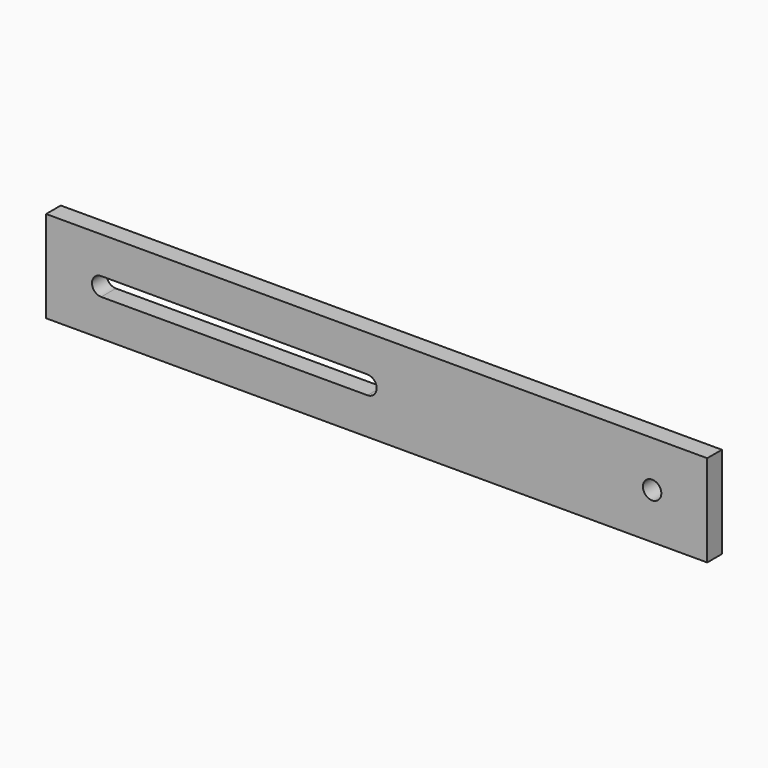
from build123d import *

# Parameters (mm, degrees)
F0_W     = 720
F0_H     = 20
F1_DEPTH = 100
F2_R     = 10
F3_DEPTH = 20.001


with BuildPart() as f1:
    # F0 (on Top) → F1 (new body)
    with BuildSketch(Plane.XY):
        with Locations((0.979618, 151.634271)):
            Rectangle(F0_W, F0_H)
    extrude(amount=F1_DEPTH)

    # F2 (on face) → F3 (cut, through all)
    with BuildSketch(Plane.XZ.offset(-141.634271)):
        with BuildLine():
            Line((-9.020382, 60), (-299.020382, 60))
            ThreePointArc((-299.020382, 60), (-309.020382, 50), (-299.020382, 40))
            Line((-299.020382, 40), (-9.020382, 40))
            ThreePointArc((-9.020382, 40), (0.979618, 50), (-9.020382, 60))
        make_face()
        with Locations((300.979618, 50)):
            Circle(F2_R)
    extrude(amount=-F3_DEPTH, mode=Mode.SUBTRACT)


solid = f1.part
